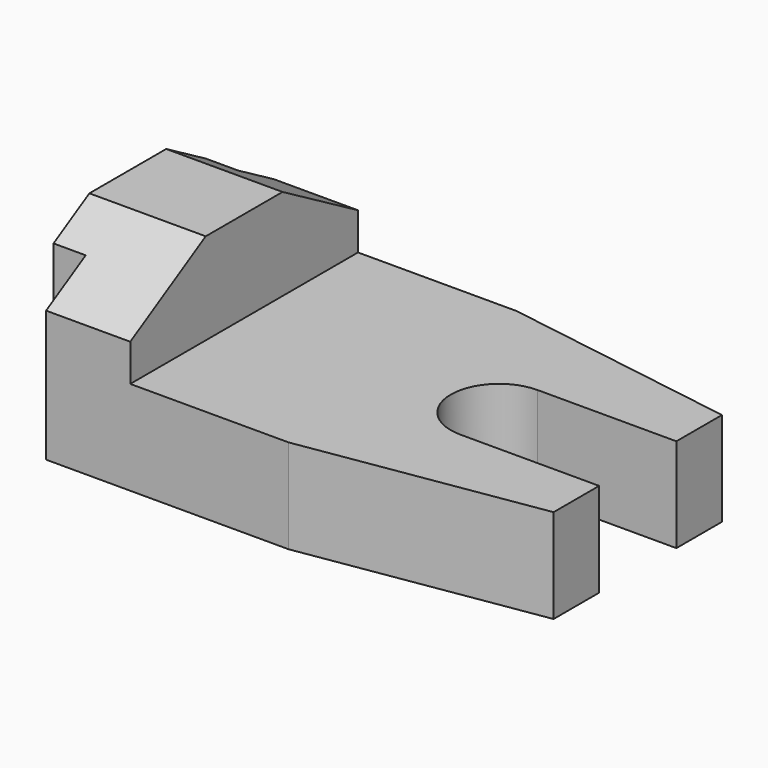
from build123d import *

# Parameters (mm, degrees)
F0_W      = 104.648
F0_H      = 38.1
F1_DEPTH  = 58.42
F2_W      = 80.772
F2_H      = 18.796
F3_DEPTH  = 58.42
F5_DEPTH  = 19.304
F6_W      = 9.166194
F6_H      = 38.1
F6_W_2    = 10.16
F7_DEPTH  = 6.604
F9_DEPTH  = 23.876
F11_DEPTH = 23.876


with BuildPart() as f1:
    # F0 (on Front) → F1 (new body)
    with BuildSketch(Plane.XZ):
        with Locations((52.324, 19.05)):
            Rectangle(F0_W, F0_H)
    extrude(amount=F1_DEPTH)

    # F2 (on face) → F3 (cut)
    with BuildSketch(Plane.XZ.offset(58.42)):
        with Locations((64.262, 28.702)):
            Rectangle(F2_W, F2_H)
    extrude(amount=-F3_DEPTH, mode=Mode.SUBTRACT)

    # F4 (on face) → F5 (cut)
    with BuildSketch(Plane.XY.offset(19.304)):
        Polygon((104.648, 0), (56.388, 0), (104.648, -7.62), align=None)
        Polygon((76.2, -39.116), (104.648, -39.116), (104.648, -19.304), (76.2, -19.304), (76.2, -29.21), align=None)
        with BuildLine():
            ThreePointArc((76.2, -19.304), (66.294, -29.21), (76.2, -39.116))
            Line((76.2, -39.116), (76.2, -29.21))
            Line((76.2, -29.21), (76.2, -19.304))
        make_face()
        Polygon((56.388, -58.42), (104.648, -58.42), (104.648, -50.8), align=None)
    extrude(amount=-F5_DEPTH, mode=Mode.SUBTRACT)

    # F6 (on face) → F7 (cut)
    with BuildSketch(Plane(origin=(0, 0, 0), x_dir=(0, -1, 0), z_dir=(-1, 0, 0))):
        with Locations((4.583097, 19.05)):
            Rectangle(F6_W, F6_H)
        with Locations((53.34, 19.05)):
            Rectangle(F6_W_2, F6_H)
    extrude(amount=-F7_DEPTH, mode=Mode.SUBTRACT)

    # F8 (on face) → F9 (cut)
    with BuildSketch(Plane.YZ.offset(23.876)):
        Polygon((-19.3574, 38.1), (0, 26.924), (0, 38.1), align=None)
    extrude(amount=-F9_DEPTH, mode=Mode.SUBTRACT)

    # F10 (on face) → F11 (cut)
    with BuildSketch(Plane.YZ.offset(23.876)):
        Polygon((-58.42, 38.1), (-58.42, 26.924), (-39.0626, 38.1), align=None)
    extrude(amount=-F11_DEPTH, mode=Mode.SUBTRACT)


solid = f1.part
